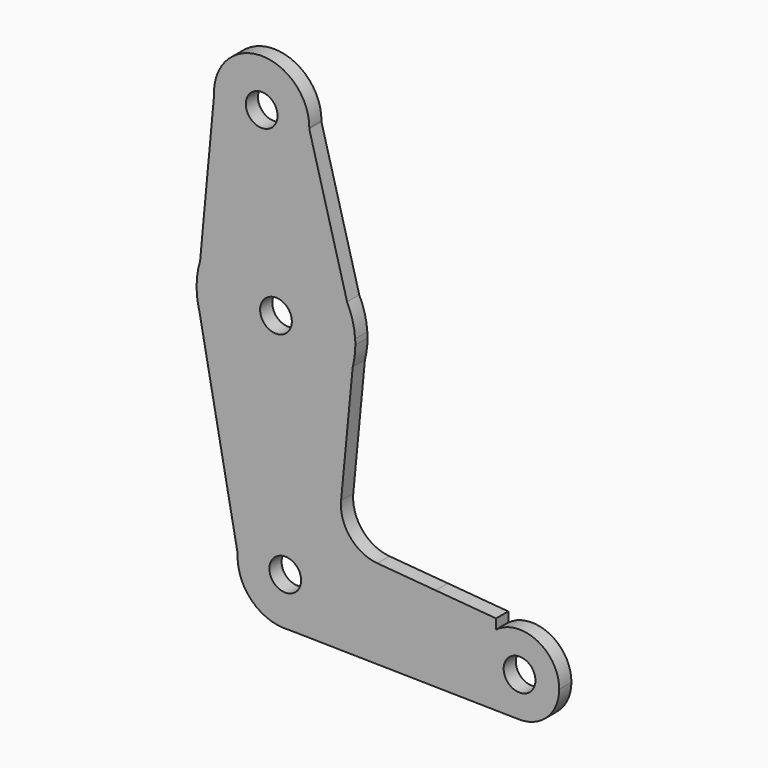
from build123d import *

# Parameters (mm, degrees)
F0_R     = 3.175
F1_DEPTH = 3.048


with BuildPart() as f1:
    # F0 (on Front) → F1 (new body)
    with BuildSketch(Plane.XZ):
        with BuildLine():
            ThreePointArc((-32.8757712969, 18.4404780095), (-33.3890224906, 21.5149540267), (-34.4931308171, 24.4298767309))
            Line((-34.4931308171, 24.4298767309), (-32.8757712969, 18.4404780095))
        make_face()
        with BuildLine():
            Line((-64.4873753144, 15.5736084421), (-63.8871993977, 22.0477570682))
            ThreePointArc((-63.8871993977, 22.0477570682), (-64.5222885264, 18.8417385195), (-64.4873753144, 15.5736084421))
        make_face()
        with BuildLine():
            Line((-64.045890156, 13.2554971856), (-64.4873753144, 15.5736084421))
            ThreePointArc((-64.4873753144, 15.5736084421), (-64.3097650319, 14.4063382518), (-64.045890156, 13.2554971856))
        make_face()
        with BuildLine():
            ThreePointArc((-32.8400662971, 17.376354476), (-32.848995058, 17.9087156648), (-32.8757712969, 18.4404780095))
            Line((-32.8757712969, 18.4404780095), (-33.3657433227, 13.3249461745))
            ThreePointArc((-33.3657433227, 13.3249461745), (-32.972034073, 15.3336696275), (-32.8400662971, 17.376354476))
        make_face()
        with BuildLine():
            ThreePointArc((-42.0549356207, 52.4327193006), (-42.0528694974, 52.547245483), (-42.0521807564, 52.6617882303))
            ThreePointArc((-42.0521807564, 52.6617882303), (-51.8045817064, 62.1840733452), (-61.0913227633, 52.2071159613))
            ThreePointArc((-61.0913227633, 52.2071159613), (-51.464306349, 43.1374570534), (-42.0549356207, 52.4327193006))
        make_face()
        with Locations((-51.5771807564, 52.6617882303)):
            Circle(F0_R, mode=Mode.SUBTRACT)
        with BuildLine():
            ThreePointArc((-42.0549356207, 52.4327193006), (-51.464306349, 43.1374570534), (-61.0913227633, 52.2071159613))
            Line((-61.0913227633, 52.2071159613), (-63.8871993977, 22.0477570682))
            ThreePointArc((-63.8871993977, 22.0477570682), (-49.9973854467, 33.1994794075), (-34.4931308171, 24.4298767309))
            Line((-34.4931308171, 24.4298767309), (-42.0549356207, 52.4327193006))
        make_face()
        Polygon((-16.7739203078, -20.6043502247), (-28.439579551, -19.6281634255), (-37.4653534588, -26.0125322814), align=None)
        with BuildLine():
            Line((-37.4653534588, -26.0125322814), (-36.7345294515, -18.9340388651))
            Line((-36.7345294515, -18.9340388651), (-45.260658615, -18.2205691362))
            ThreePointArc((-45.260658615, -18.2205691362), (-40.1214970506, -20.8745092332), (-37.4653534588, -26.0125322814))
        make_face()
        Polygon((-16.7739203078, -20.6043502247), (-37.4653534588, -26.0125322814), (-12.4270269281, -22.6534523272), (-4.690299932, -21.6155121704), align=None)
        with BuildLine():
            ThreePointArc((-33.4273079139, 13.0984965289), (-48.7964662993, 1.501563169), (-64.045890156, 13.2554971856))
            Line((-64.045890156, 13.2554971856), (-56.3650952155, -27.074142149))
            ThreePointArc((-56.3650952155, -27.074142149), (-52.7931982522, -20.1635728012), (-45.260658615, -18.2205691362))
            Line((-45.260658615, -18.2205691362), (-36.7345294515, -18.9340388651))
            Line((-36.7345294515, -18.9340388651), (-33.4273079139, 13.0984965289))
        make_face()
        with BuildLine():
            ThreePointArc((-37.330244918, -27.6111452379), (-39.87339809, -34.0902994938), (-46.1448254684, -37.1096150728))
            Line((-46.1448254684, -37.1096150728), (-0.1379895311, -37.9095410386))
            ThreePointArc((-0.1379895311, -37.9095410386), (-5.9702608824, -35.2039089057), (-7.8855415331, -29.0665206677))
            Line((-7.8855415331, -29.0665206677), (-37.4653534588, -26.0125322814))
            ThreePointArc((-37.4653534588, -26.0125322814), (-37.364082156, -26.8089891274), (-37.330244918, -27.6111452379))
        make_face()
        with BuildLine():
            ThreePointArc((-45.260658615, -18.2205691362), (-52.7931982522, -20.1635728012), (-56.3650952155, -27.074142149))
            ThreePointArc((-56.3650952155, -27.074142149), (-53.5287129079, -34.407500878), (-46.1448254684, -37.1096150728))
            ThreePointArc((-46.1448254684, -37.1096150728), (-39.87339809, -34.0902994938), (-37.330244918, -27.6111452379))
            ThreePointArc((-37.330244918, -27.6111452379), (-37.364082156, -26.8089891274), (-37.4653534588, -26.0125322814))
            ThreePointArc((-37.4653534588, -26.0125322814), (-40.1214970506, -20.8745092332), (-45.260658615, -18.2205691362))
        make_face()
        with Locations((-46.855244918, -27.6111452379)):
            Circle(F0_R, mode=Mode.SUBTRACT)
        Polygon((-28.439579551, -19.6281634255), (-36.7345294515, -18.9340388651), (-37.4653534588, -26.0125322814), align=None)
        with BuildLine():
            Line((-35.6906021551, -10.9476423467), (-33.3657433227, 13.3249461745))
            ThreePointArc((-33.3657433227, 13.3249461745), (-33.3961071814, 13.2116075918), (-33.4273079139, 13.0984965289))
            Line((-33.4273079139, 13.0984965289), (-36.7345294515, -18.9340388651))
            Line((-36.7345294515, -18.9340388651), (-28.439579551, -19.6281634255))
            ThreePointArc((-28.439579551, -19.6281634255), (-33.8781646454, -16.8024017199), (-35.6906021551, -10.9476423467))
        make_face()
        with BuildLine():
            Line((-33.3657433227, 13.3249461745), (-32.8757712969, 18.4404780095))
            Line((-32.8757712969, 18.4404780095), (-33.4273079139, 13.0984965289))
            ThreePointArc((-33.4273079139, 13.0984965289), (-33.3961071814, 13.2116075918), (-33.3657433227, 13.3249461745))
        make_face()
        with BuildLine():
            ThreePointArc((-34.4931308171, 24.4298767309), (-49.9973854467, 33.1994794075), (-63.8871993977, 22.0477570682))
            Line((-63.8871993977, 22.0477570682), (-64.4873753144, 15.5736084421))
            Line((-64.4873753144, 15.5736084421), (-64.045890156, 13.2554971856))
            ThreePointArc((-64.045890156, 13.2554971856), (-48.7964662993, 1.501563169), (-33.4273079139, 13.0984965289))
            Line((-33.4273079139, 13.0984965289), (-32.8757712969, 18.4404780095))
            Line((-32.8757712969, 18.4404780095), (-34.4931308171, 24.4298767309))
        make_face()
        with Locations((-48.7150662971, 17.376354476)):
            Circle(F0_R, mode=Mode.SUBTRACT)
        with BuildLine():
            Line((-6.6206948027, -23.7136035763), (-37.4653534588, -26.0125322814))
            Line((-37.4653534588, -26.0125322814), (-7.8855415331, -29.0665206677))
            ThreePointArc((-7.8855415331, -29.0665206677), (-6.862334424, -25.9842215792), (-4.690299932, -23.5697264717))
            Line((-4.690299932, -23.5697264717), (-6.6206948027, -23.7136035763))
        make_face()
        Polygon((-12.4270269281, -22.6534523272), (-37.4653534588, -26.0125322814), (-6.6206948027, -23.7136035763), align=None)
        Polygon((-12.4270269281, -22.6534523272), (-6.6206948027, -23.7136035763), (-4.690299932, -23.5697264717), (-4.690299932, -21.6155121704), align=None)
        with BuildLine():
            ThreePointArc((-7.8855415331, -29.0665206677), (-5.9702608824, -35.2039089057), (-0.1379895311, -37.9095410386))
            ThreePointArc((-0.1379895311, -37.9095410386), (5.5636595127, -35.6344771017), (7.9375, -29.9732405692))
            ThreePointArc((7.9375, -29.9732405692), (3.5898920972, -22.8939340368), (-4.690299932, -23.5697264717))
            ThreePointArc((-4.690299932, -23.5697264717), (-6.862334424, -25.9842215792), (-7.8855415331, -29.0665206677))
        make_face()
        with Locations((0, -29.9732405692)):
            Circle(F0_R, mode=Mode.SUBTRACT)
    extrude(amount=F1_DEPTH)


solid = f1.part
